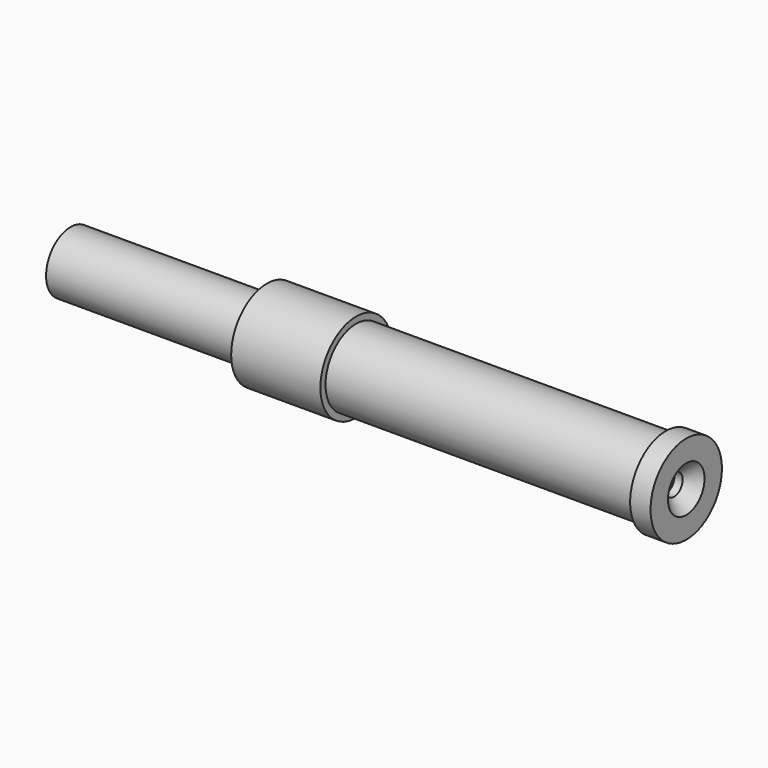
from build123d import *

# Parameters (mm, degrees)
F0_R            = 15
F1_DEPTH        = 156.5
F2_R            = 12
F3_DEPTH        = 77
F5_D            = 6.8
F5_DEPTH        = 30
F5_TIP          = 2.0429261047
F6_R            = 17.5
F6_R_2          = 15
F7_DEPTH        = 35
F8_D            = 6.8
F8_DEPTH        = 30
F8_TIP          = 2.0429261047
F9_R            = 17.5
F10_DEPTH       = 8
F12_D           = 8.4
F12_DEPTH       = 30
F12_CSINK_D     = 17.92
F12_CSINK_ANGLE = 90
F12_TIP         = 2.5236145999


with BuildPart() as f1:
    # F0 (on Right) → F1 (new body)
    with BuildSketch(Plane.YZ):
        Circle(F0_R)
    extrude(amount=-F1_DEPTH)

    # F2 (on face) → F3 (join)
    with BuildSketch(Plane(origin=(-156.5, 0, 0), x_dir=(0, -1, 0), z_dir=(-1, 0, 0))):
        Circle(F2_R)
    extrude(amount=F3_DEPTH)

    # F5
    with Locations(Plane(origin=(-233.5, 0, 0), x_dir=(0, -1, 0), z_dir=(-1, 0, 0))):
        with Locations((0, 0)):
            Hole(F5_D / 2, depth=F5_DEPTH)
            with Locations((0, 0, -(F5_DEPTH + F5_TIP / 2))):  # 118° drill point
                Cone(0, F5_D / 2, F5_TIP, mode=Mode.SUBTRACT)

    # F6 (on face) → F7 (join)
    with BuildSketch(Plane(origin=(-156.5, 0, 0), x_dir=(0, -1, 0), z_dir=(-1, 0, 0))):
        Circle(F6_R)
        Circle(F6_R_2, mode=Mode.SUBTRACT)
    extrude(amount=-F7_DEPTH)

    # F8
    with Locations(Plane.YZ):
        with Locations((0, 0)):
            Hole(F8_D / 2, depth=F8_DEPTH)
            with Locations((0, 0, -(F8_DEPTH + F8_TIP / 2))):  # 118° drill point
                Cone(0, F8_D / 2, F8_TIP, mode=Mode.SUBTRACT)


with BuildPart() as f10:
    # F9 (on Right) → F10 (new body)
    with BuildSketch(Plane.YZ):
        Circle(F9_R)
    extrude(amount=F10_DEPTH)

    # F12
    with Locations(Plane.YZ.offset(8)):
        with Locations((0, 0)):
            CounterSinkHole(F12_D / 2, F12_CSINK_D / 2, depth=F12_DEPTH, counter_sink_angle=F12_CSINK_ANGLE)
            with Locations((0, 0, -(F12_DEPTH + F12_TIP / 2))):  # 118° drill point
                Cone(0, F12_D / 2, F12_TIP, mode=Mode.SUBTRACT)


solid = Compound([f1.part, f10.part])
